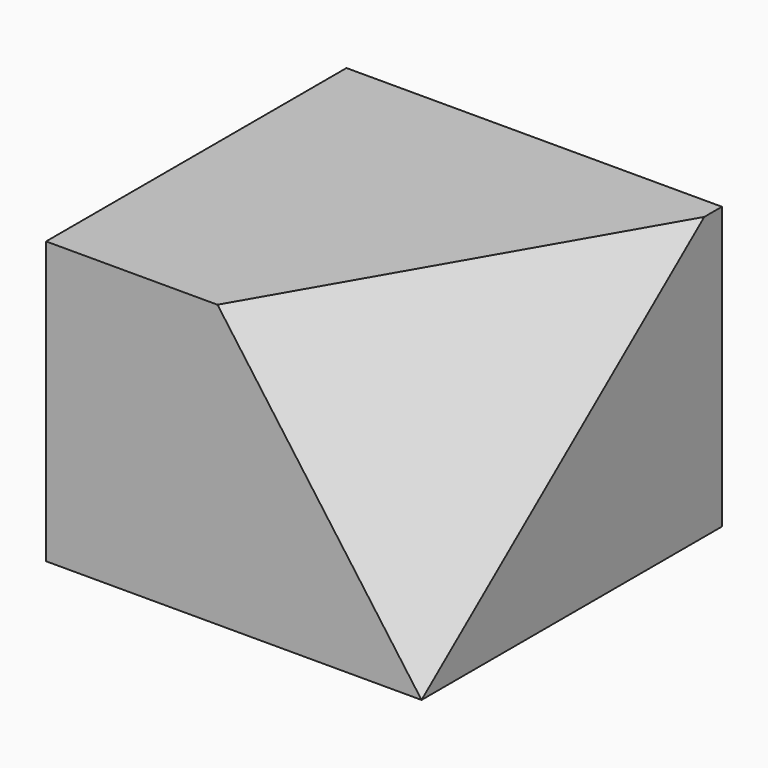
from build123d import *

# Parameters (mm, degrees)
F0_W     = 2540
F0_H     = 2540
F1_DEPTH = 1905
F5_DEPTH = 1012.6056644313


with BuildPart() as f1:
    # F0 (on Top) → F1 (new body)
    with BuildSketch(Plane.XY):
        with Locations((1270, 1270)):
            Rectangle(F0_W, F0_H)
    extrude(amount=F1_DEPTH)

    # F4 (on 3pt) → F5 (cut, through all)
    with BuildSketch(Plane(origin=(1366.7489730037, -789.0928874783, 990.3898480668), x_dir=(0.3429406498, 0.9058899589, 0.2485057203), z_dir=(0.7335462813, -0.423513143, 0.531551005))):
        Polygon((871.0692503954, 862.1706260274), (871.0692503954, -1490.401278041), (3510.4228974704, 52.1764402953), (2273.0055313539, 431.9288364886), (1677.601780615, 614.6529579022), align=None)
    extrude(amount=F5_DEPTH, mode=Mode.SUBTRACT)


solid = f1.part
